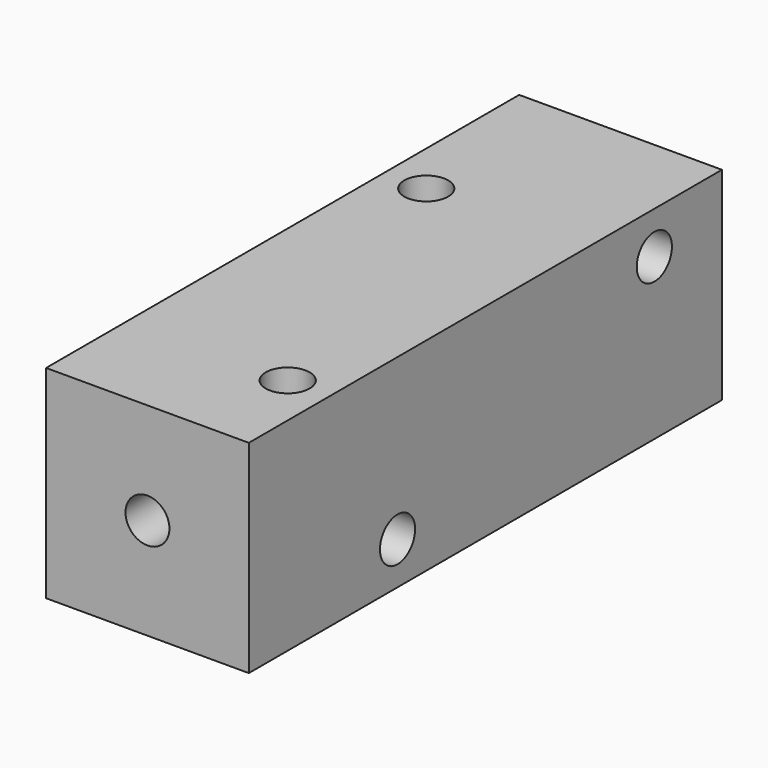
from build123d import *

# Parameters (mm, degrees)
CYLINDER024_R           = 1.3
CYLINDER024_DEPTH       = 40
CYLINDER024_PITCH_ANGLE = 90
CYLINDER023_R           = 1.3
CYLINDER023_DEPTH       = 40
CYLINDER023_PITCH_ANGLE = 90
CYLINDER022_R           = 1.3
CYLINDER022_DEPTH       = 70
CYLINDER022_ROLL_ANGLE  = 90
CYLINDER021_R           = 1.3
CYLINDER021_DEPTH       = 40
CYLINDER020_R           = 1.3
CYLINDER020_DEPTH       = 40
BOX017_W                = 12
BOX017_H                = 35
BOX017_DEPTH            = 12


with BuildPart() as cylinder105:
    # Cylinder024 → Cylinder024 (new body)
    with BuildSketch(Plane.XY):
        Circle(CYLINDER024_R)
    extrude(amount=CYLINDER024_DEPTH)


with BuildPart() as cylinder105_1:
    # Cylinder024 pitch: moved
    add(cylinder105.part.rotate(Axis((0, 0, 0), (0, 1, 0)), CYLINDER024_PITCH_ANGLE))


with BuildPart() as cylinder105_2:
    # Cylinder024 placement: moved
    add(cylinder105_1.part.moved(Location((-40, 12, 9.5))))


with BuildPart() as fusion007:
    # Cylinder023 → Cylinder023 (new body)
    with BuildSketch(Plane.XY):
        Circle(CYLINDER023_R)
    extrude(amount=CYLINDER023_DEPTH)


with BuildPart() as fusion007_1:
    # Cylinder023 pitch: moved
    add(fusion007.part.rotate(Axis((0, 0, 0), (0, 1, 0)), CYLINDER023_PITCH_ANGLE))


with BuildPart() as fusion007_2:
    # Cylinder023 placement: moved
    add(fusion007_1.part.moved(Location((-40, -7, 2.5))))

    # Fusion007: union Cylinder105
    add(cylinder105_2.part)


with BuildPart() as fusion008:
    # Cylinder022 → Cylinder022 (new body)
    with BuildSketch(Plane.XY):
        Circle(CYLINDER022_R)
    extrude(amount=CYLINDER022_DEPTH)


with BuildPart() as fusion008_1:
    # Cylinder022 roll: moved
    add(fusion008.part.rotate(Axis((0, 0, 0), (1, 0, 0)), CYLINDER022_ROLL_ANGLE))


with BuildPart() as fusion008_2:
    # Cylinder022 placement: moved
    add(fusion008_1.part.moved(Location((-24, 39, 6))))

    # Fusion008: union Fusion007
    add(fusion007_2.part)


with BuildPart() as fusion009:
    # Cylinder021 → Cylinder021 (new body)
    with BuildSketch(Plane(origin=(-27.5, 7, -15), x_dir=(1, 0, 0), z_dir=(0, 0, 1))):
        Circle(CYLINDER021_R)
    extrude(amount=CYLINDER021_DEPTH)

    # Fusion009: union Fusion008
    add(fusion008_2.part)


with BuildPart() as corner_block_holes:
    # Cylinder020 → Cylinder020 (new body)
    with BuildSketch(Plane(origin=(-20.5, -12, -15), x_dir=(1, 0, 0), z_dir=(0, 0, 1))):
        Circle(CYLINDER020_R)
    extrude(amount=CYLINDER020_DEPTH)

    # Fusion010: union Fusion009
    add(fusion009.part)


with BuildPart() as corner_block001:
    # Box017 → Box017 (new body)
    with BuildSketch(Plane(origin=(-30, -18, 0), x_dir=(1, 0, 0), z_dir=(0, 0, 1))):
        with Locations((6, 17.5)):
            Rectangle(BOX017_W, BOX017_H)
    extrude(amount=BOX017_DEPTH)

    # Cut009: cut corner-block-holes
    add(corner_block_holes.part, mode=Mode.SUBTRACT)


with BuildPart() as corner_block001_1:
    # Cut009 placement: moved
    add(corner_block001.part.moved(Location((104, 0, 0))))


solid = corner_block001_1.part
